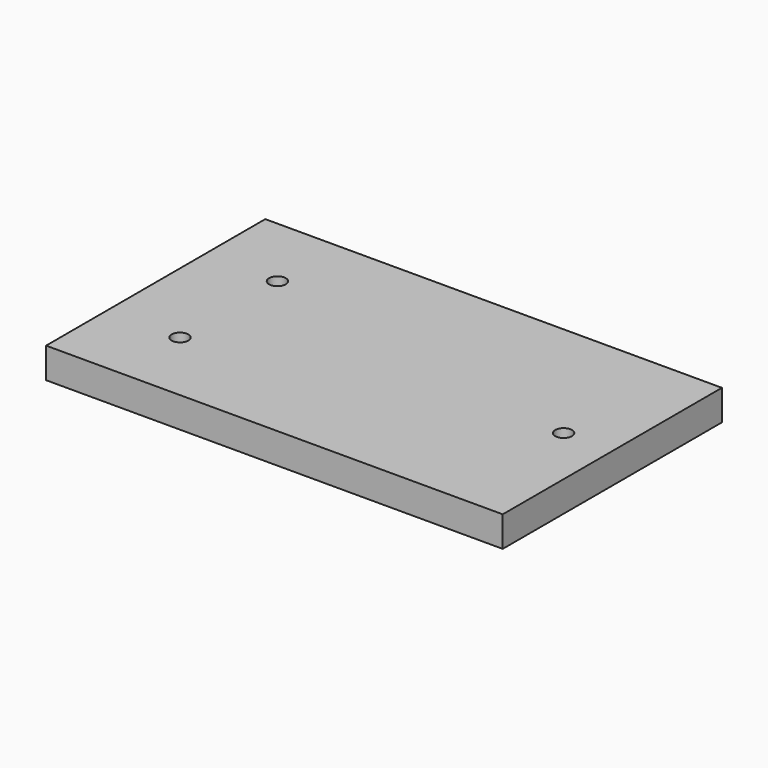
from build123d import *

# Parameters (mm, degrees)
F0_W     = 150
F0_H     = 90
F0_R     = 5
F0_R_2   = 2.75
F1_DEPTH = 10
F2_DEPTH = 5.5


with BuildPart() as f1:
    # F0 (on Top) → F1 (new body)
    with BuildSketch(Plane.XY):
        Rectangle(F0_W, F0_H)
        with Locations((-51, -20)):
            Circle(F0_R, mode=Mode.SUBTRACT)
        with Locations((-51, 20)):
            Circle(F0_R, mode=Mode.SUBTRACT)
        with Locations((59, 0)):
            Circle(F0_R, mode=Mode.SUBTRACT)
        with Locations((-51, 20)):
            Circle(F0_R)
        with Locations((-51, 20)):
            Circle(F0_R_2, mode=Mode.SUBTRACT)
        with Locations((-51, -20)):
            Circle(F0_R)
        with Locations((-51, -20)):
            Circle(F0_R_2, mode=Mode.SUBTRACT)
        with Locations((59, 0)):
            Circle(F0_R)
        with Locations((59, 0)):
            Circle(F0_R_2, mode=Mode.SUBTRACT)
    extrude(amount=F1_DEPTH)

    # F0 (on Top) → F2 (cut)
    with BuildSketch(Plane.XY):
        with Locations((-51, -20)):
            Circle(F0_R)
        with Locations((-51, -20)):
            Circle(F0_R_2, mode=Mode.SUBTRACT)
        with Locations((-51, 20)):
            Circle(F0_R)
        with Locations((-51, 20)):
            Circle(F0_R_2, mode=Mode.SUBTRACT)
        with Locations((59, 0)):
            Circle(F0_R)
        with Locations((59, 0)):
            Circle(F0_R_2, mode=Mode.SUBTRACT)
    extrude(amount=F2_DEPTH, mode=Mode.SUBTRACT)


solid = f1.part
